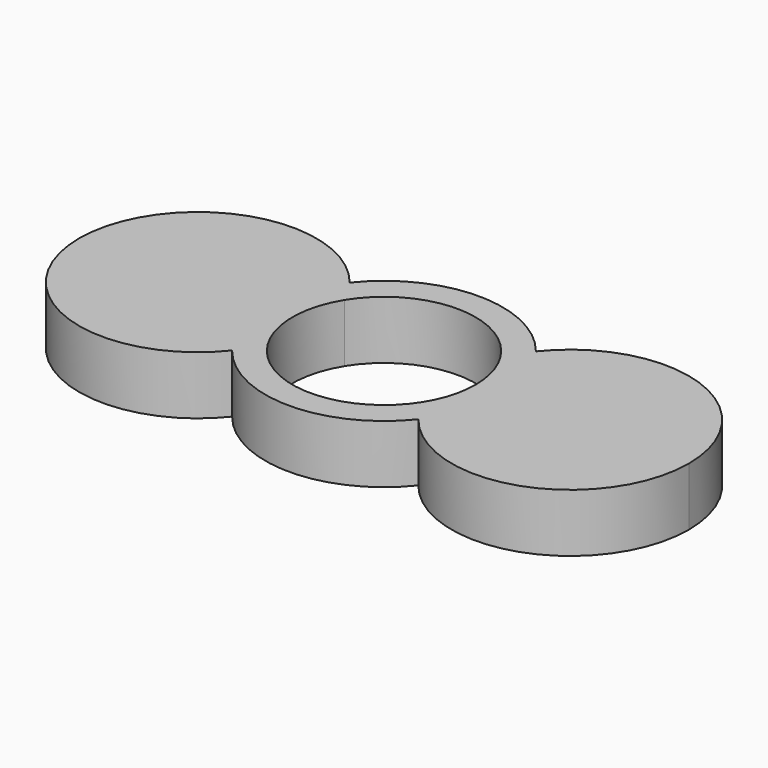
from build123d import *

# Parameters (mm, degrees)
F1_DEPTH = 7
F2_DEPTH = 25


with BuildPart() as f1:
    # F0 (on Top) → F1 (new body)
    with BuildSketch(Plane.XY):
        with BuildLine():
            ThreePointArc((11.1912532195, 8.8289930758), (13.467047778, 4.6726749835), (14.2546577425, 0))
            ThreePointArc((14.2546577425, 0), (13.467047778, -4.6726749835), (11.1912532195, -8.8289930758))
            ThreePointArc((11.1912532195, -8.8289930758), (27.0551814224, -13.467047778), (36.6371641815, 0))
            ThreePointArc((36.6371641815, 0), (27.0551814224, 13.467047778), (11.1912532195, 8.8289930758))
        make_face()
        with BuildLine():
            ThreePointArc((11, 0), (10.5807877336, 3.0078116524), (9.3551034661, 5.7863666613))
            ThreePointArc((9.3551034661, 5.7863666613), (8.1278486965, 0), (9.3551034661, -5.7863666613))
            ThreePointArc((9.3551034661, -5.7863666613), (10.5807877336, -3.0078116524), (11, 0))
        make_face()
        with BuildLine():
            ThreePointArc((-11.1912532195, -8.8289930758), (-14.2546577425, 0), (-11.1912532195, 8.8289930758))
            ThreePointArc((-11.1912532195, 8.8289930758), (-36.6371641815, 0), (-11.1912532195, -8.8289930758))
        make_face()
        with BuildLine():
            ThreePointArc((-8.1278486965, 0), (-8.4380373202, 2.9575409299), (-9.3551034661, 5.7863666613))
            ThreePointArc((-9.3551034661, 5.7863666613), (-11, 0), (-9.3551034661, -5.7863666613))
            ThreePointArc((-9.3551034661, -5.7863666613), (-8.4380373202, -2.9575409299), (-8.1278486965, 0))
        make_face()
        with BuildLine():
            ThreePointArc((9.3551034661, 5.7863666613), (10.1779900284, 7.3651236609), (11.1912532195, 8.8289930758))
            ThreePointArc((11.1912532195, 8.8289930758), (0, 14.2546577425), (-11.1912532195, 8.8289930758))
            ThreePointArc((-11.1912532195, 8.8289930758), (-10.1779900284, 7.3651236609), (-9.3551034661, 5.7863666613))
            ThreePointArc((-9.3551034661, 5.7863666613), (0, 11), (9.3551034661, 5.7863666613))
        make_face()
        with BuildLine():
            ThreePointArc((-11.1912532195, -8.8289930758), (0, -14.2546577425), (11.1912532195, -8.8289930758))
            ThreePointArc((11.1912532195, -8.8289930758), (10.1779900284, -7.3651236609), (9.3551034661, -5.7863666613))
            ThreePointArc((9.3551034661, -5.7863666613), (0, -11), (-9.3551034661, -5.7863666613))
            ThreePointArc((-9.3551034661, -5.7863666613), (-10.1779900284, -7.3651236609), (-11.1912532195, -8.8289930758))
        make_face()
        with BuildLine():
            ThreePointArc((-9.3551034661, 5.7863666613), (-10.1779900284, 7.3651236609), (-11.1912532195, 8.8289930758))
            ThreePointArc((-11.1912532195, 8.8289930758), (-14.2546577425, 0), (-11.1912532195, -8.8289930758))
            ThreePointArc((-11.1912532195, -8.8289930758), (-10.1779900284, -7.3651236609), (-9.3551034661, -5.7863666613))
            ThreePointArc((-9.3551034661, -5.7863666613), (-11, 0), (-9.3551034661, 5.7863666613))
        make_face()
        with BuildLine():
            ThreePointArc((11.1912532195, -8.8289930758), (13.467047778, -4.6726749835), (14.2546577425, 0))
            ThreePointArc((14.2546577425, 0), (13.467047778, 4.6726749835), (11.1912532195, 8.8289930758))
            ThreePointArc((11.1912532195, 8.8289930758), (10.1779900284, 7.3651236609), (9.3551034661, 5.7863666613))
            ThreePointArc((9.3551034661, 5.7863666613), (10.5807877336, 3.0078116524), (11, 0))
            ThreePointArc((11, 0), (10.5807877336, -3.0078116524), (9.3551034661, -5.7863666613))
            ThreePointArc((9.3551034661, -5.7863666613), (10.1779900284, -7.3651236609), (11.1912532195, -8.8289930758))
        make_face()
        with BuildLine():
            ThreePointArc((9.3551034661, -5.7863666613), (8.1278486965, 0), (9.3551034661, 5.7863666613))
            ThreePointArc((9.3551034661, 5.7863666613), (0, 11), (-9.3551034661, 5.7863666613))
            ThreePointArc((-9.3551034661, 5.7863666613), (-8.4380373202, 2.9575409299), (-8.1278486965, 0))
            ThreePointArc((-8.1278486965, 0), (-8.4380373202, -2.9575409299), (-9.3551034661, -5.7863666613))
            ThreePointArc((-9.3551034661, -5.7863666613), (0, -11), (9.3551034661, -5.7863666613))
        make_face()
    extrude(amount=F1_DEPTH)

    # F0 (on Top) → F2 (cut)
    with BuildSketch(Plane.XY):
        with BuildLine():
            ThreePointArc((9.3551034661, -5.7863666613), (8.1278486965, 0), (9.3551034661, 5.7863666613))
            ThreePointArc((9.3551034661, 5.7863666613), (0, 11), (-9.3551034661, 5.7863666613))
            ThreePointArc((-9.3551034661, 5.7863666613), (-8.4380373202, 2.9575409299), (-8.1278486965, 0))
            ThreePointArc((-8.1278486965, 0), (-8.4380373202, -2.9575409299), (-9.3551034661, -5.7863666613))
            ThreePointArc((-9.3551034661, -5.7863666613), (0, -11), (9.3551034661, -5.7863666613))
        make_face()
        with BuildLine():
            ThreePointArc((-8.1278486965, 0), (-8.4380373202, 2.9575409299), (-9.3551034661, 5.7863666613))
            ThreePointArc((-9.3551034661, 5.7863666613), (-11, 0), (-9.3551034661, -5.7863666613))
            ThreePointArc((-9.3551034661, -5.7863666613), (-8.4380373202, -2.9575409299), (-8.1278486965, 0))
        make_face()
        with BuildLine():
            ThreePointArc((11, 0), (10.5807877336, 3.0078116524), (9.3551034661, 5.7863666613))
            ThreePointArc((9.3551034661, 5.7863666613), (8.1278486965, 0), (9.3551034661, -5.7863666613))
            ThreePointArc((9.3551034661, -5.7863666613), (10.5807877336, -3.0078116524), (11, 0))
        make_face()
    extrude(amount=F2_DEPTH, mode=Mode.SUBTRACT)


solid = f1.part
